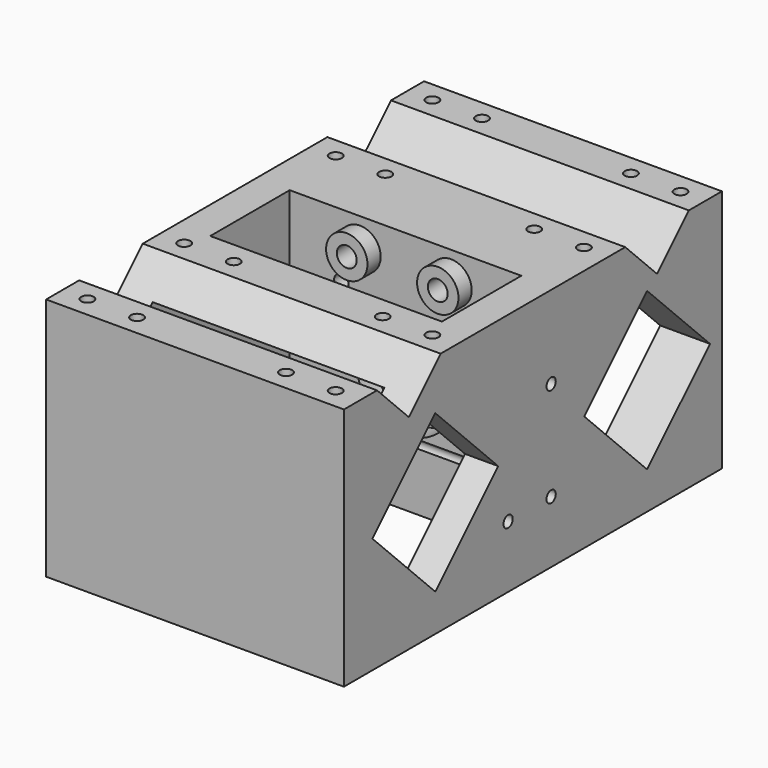
from build123d import *

# Parameters (mm, degrees)
PAD008_DEPTH       = 36
SKETCH008_W        = 24
SKETCH008_H        = 56
POCKET_DEPTH       = 59.001
SKETCH009_W        = 60
SKETCH009_H        = 48
POCKET001_DEPTH    = 51
SKETCH010_R        = 12
SKETCH010_R_2      = 1.75
POCKET002_DEPTH    = 5
SKETCH011_R        = 5
PAD009_DEPTH       = 4
SKETCH012_R        = 2.4
POCKET003_DEPTH    = 8
SKETCH015_R        = 1.5
POCKET005_DEPTH    = 10
SKETCH022_R        = 1.1
POCKET006007_DEPTH = 10
SKETCH026_R        = 1.4
POCKET006008_DEPTH = 72.001
SKETCH027_W        = 31.606602
SKETCH027_H        = 56
POCKET006009_DEPTH = 52


with BuildPart() as part:
    # Sketch007 → Pad008 (new body, symmetric)
    with BuildSketch(Plane.YZ):
        Polygon((9.606602, -1), (0, -10.606602), (-9.606602, -1), (-19.606602, -1), (-19.606602, -60), (94.606602, -60), (94.606602, -1), (84.606602, -1), (75, -10.606602), (65.393398, -1), align=None)
    extrude(amount=PAD008_DEPTH, both=True)

    # Sketch008 → Pocket (cut, through all)
    with BuildSketch(Plane(origin=(0, 0, -1), x_dir=(0, -1, 0), z_dir=(0, 0, 1))):
        with Locations((-32, 0)):
            Rectangle(SKETCH008_W, SKETCH008_H)
    extrude(amount=-POCKET_DEPTH, mode=Mode.SUBTRACT)

    # Sketch009 → Pocket001 (cut)
    with BuildSketch(Plane.YX.offset(60)):
        with Locations((79, 0)):
            Rectangle(SKETCH009_W, SKETCH009_H)
    extrude(amount=-POCKET001_DEPTH, mode=Mode.SUBTRACT)

    # Sketch010 → Pocket002 (cut)
    with BuildSketch(Plane(origin=(0, 44, 0), x_dir=(0, 0, -1), z_dir=(0, -1, 0))):
        with Locations((32, 0)):
            Circle(SKETCH010_R)
        with Locations((16.5, 15.5)):
            Circle(SKETCH010_R_2)
        with Locations((47.5, 15.5)):
            Circle(SKETCH010_R_2)
        with Locations((47.5, -15.5)):
            Circle(SKETCH010_R_2)
        with Locations((16.5, -15.5)):
            Circle(SKETCH010_R_2)
    extrude(amount=-POCKET002_DEPTH, mode=Mode.SUBTRACT)

    # Sketch011 → Pad009 (new body)
    with BuildSketch(Plane(origin=(0, 44, 0), x_dir=(0, 0, -1), z_dir=(0, -1, 0))):
        with Locations((8, 11)):
            Circle(SKETCH011_R)
        with Locations((8, -11)):
            Circle(SKETCH011_R)
    extrude(amount=PAD009_DEPTH)

    # Sketch012 → Pocket003 (cut)
    with BuildSketch(Plane(origin=(0, 40, 0), x_dir=(0, 0, -1), z_dir=(0, -1, 0))):
        with Locations((8, 11)):
            Circle(SKETCH012_R)
        with Locations((8, -11)):
            Circle(SKETCH012_R)
    extrude(amount=-POCKET003_DEPTH, mode=Mode.SUBTRACT)

    # Sketch015 → Pocket005 (cut)
    with BuildSketch(Plane(origin=(0, 0, -1), x_dir=(0, -1, 0), z_dir=(0, 0, 1))):
        with Locations((-89.606602, 30)):
            Circle(SKETCH015_R)
        with Locations((-89.606602, 18)):
            Circle(SKETCH015_R)
        with Locations((-60.393398, 30)):
            Circle(SKETCH015_R)
        with Locations((-60.393398, 18)):
            Circle(SKETCH015_R)
        with Locations((-89.606602, -18)):
            Circle(SKETCH015_R)
        with Locations((-89.606602, -30)):
            Circle(SKETCH015_R)
        with Locations((-60.393398, -18)):
            Circle(SKETCH015_R)
        with Locations((-60.393398, -30)):
            Circle(SKETCH015_R)
        with Locations((-14.606602, 30)):
            Circle(SKETCH015_R)
        with Locations((14.606602, 18)):
            Circle(SKETCH015_R)
        with Locations((14.606602, 30)):
            Circle(SKETCH015_R)
        with Locations((-14.606602, 18)):
            Circle(SKETCH015_R)
        with Locations((-14.606602, -18)):
            Circle(SKETCH015_R)
        with Locations((-14.606602, -30)):
            Circle(SKETCH015_R)
        with Locations((14.606602, -18)):
            Circle(SKETCH015_R)
        with Locations((14.606602, -30)):
            Circle(SKETCH015_R)
    extrude(amount=-POCKET005_DEPTH, mode=Mode.SUBTRACT)

    # Sketch022 → Pocket006007 (cut)
    with BuildSketch(Plane.ZX.offset(94.606602)):
        with Locations((-15.75, -26.5)):
            Circle(SKETCH022_R)
        with Locations((-6.25, -26.5)):
            Circle(SKETCH022_R)
    extrude(amount=-POCKET006007_DEPTH, mode=Mode.SUBTRACT)

    # Sketch026 → Pocket006008 (cut, through all)
    with BuildSketch(Plane(origin=(-36, 0, 0), x_dir=(0, 1, 0), z_dir=(-1, 0, 0))):
        with Locations((30, 45)):
            Circle(SKETCH026_R)
        with Locations((43, 45)):
            Circle(SKETCH026_R)
        with Locations((43, 21)):
            Circle(SKETCH026_R)
        Polygon((8, 13), (27, 32), (8, 51), (-11, 32), align=None)
        Polygon((72, 13), (91, 32), (72, 51), (53, 32), align=None)
    extrude(amount=-POCKET006008_DEPTH, mode=Mode.SUBTRACT)

    # Sketch027 → Pocket006009 (cut)
    with BuildSketch(Plane.YX.offset(60)):
        with Locations((4.196699, 0)):
            Rectangle(SKETCH027_W, SKETCH027_H)
    extrude(amount=-POCKET006009_DEPTH, mode=Mode.SUBTRACT)


solid = part.part
